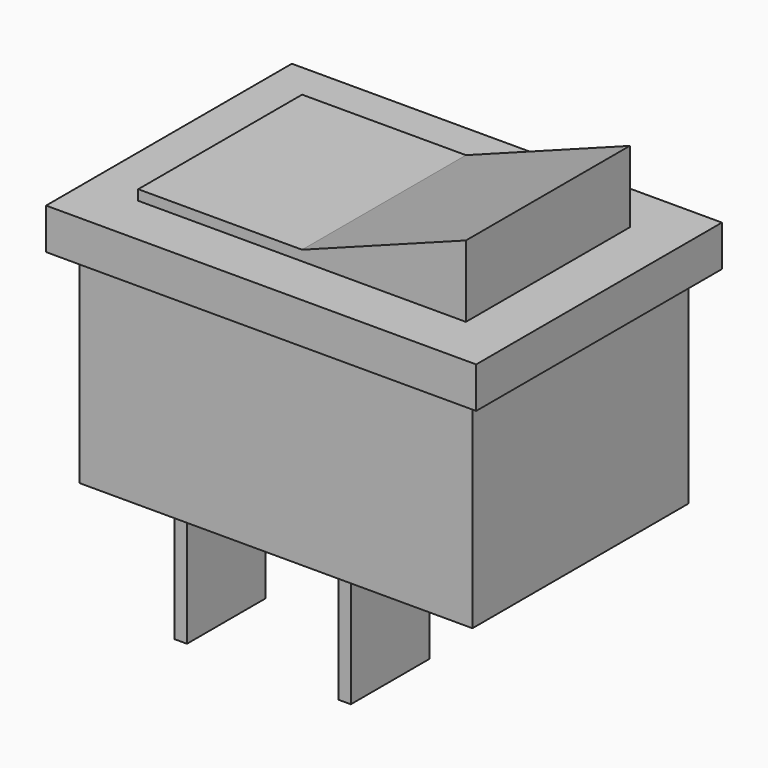
from build123d import *

# Parameters (mm, degrees)
SKETCH079_W  = 21
SKETCH079_H  = 15
PAD044_DEPTH = 2
SKETCH080_W  = 19.2
SKETCH080_H  = 13.2
PAD045_DEPTH = 10
SKETCH081_W  = 0.6
SKETCH081_H  = 4.8
PAD046_DEPTH = 8
PAD047_DEPTH = 5


with BuildPart() as part:
    # Sketch079 → Pad044 (new body)
    with BuildSketch(Plane.XY):
        Rectangle(SKETCH079_W, SKETCH079_H)
    extrude(amount=PAD044_DEPTH)

    # Sketch080 → Pad045 (join)
    with BuildSketch(Plane.XY):
        Rectangle(SKETCH080_W, SKETCH080_H)
    extrude(amount=-PAD045_DEPTH)

    # Sketch081 → Pad046 (join)
    with BuildSketch(Plane.XY.offset(-10)):
        Rectangle(SKETCH081_W, SKETCH081_H)
        with Locations((-8, 0)):
            Rectangle(SKETCH081_W, SKETCH081_H)
    extrude(amount=-PAD046_DEPTH)

    # Sketch082 → Pad047 (join, symmetric)
    with BuildSketch(Plane(origin=(0, 0, 2.5), x_dir=(1, 0, 0), z_dir=(0, -1, 0))):
        Polygon((-8, 0), (0, 0), (8, 3), (8, -1), (-8, -1), align=None)
    extrude(amount=PAD047_DEPTH, both=True)


solid = part.part
